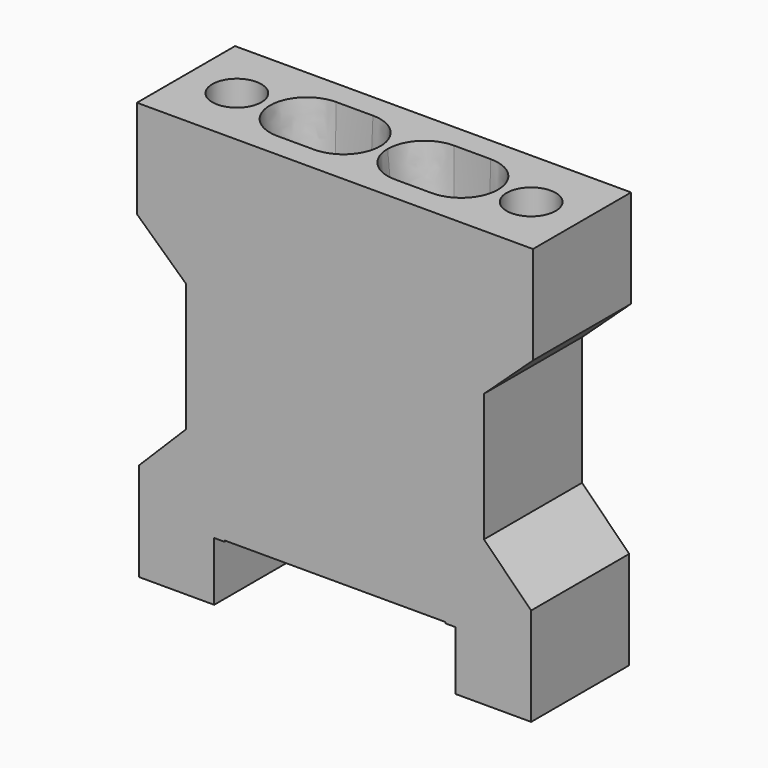
from build123d import *

# Parameters (mm, degrees)
SKETCH079_R     = 2.7
PAD033_DEPTH    = 10
SKETCH076_R     = 2.6
POCKET031_DEPTH = 8
SKETCH077_R     = 3
POCKET032_DEPTH = 1
SKETCH080_R     = 2
POCKET033_DEPTH = 8


with BuildPart() as loft005:
    # Sketch079 → Loft005 section 0
    with BuildSketch(Plane.XY.offset(16)):
        with Locations((-5, 0)):
            Circle(SKETCH079_R)
    # Sketch078 → Loft005 section 1
    with BuildSketch(Plane.XY.offset(38)):
        with BuildLine():
            ThreePointArc((-6.3, 3), (-9.3, 0), (-6.3, -3))
            Line((-6.3, -3), (-3.3, -3))
            ThreePointArc((-3.3, -3), (-0.3, 0), (-3.3, 3))
            Line((-3.3, 3), (-6.3, 3))
        make_face()
    loft()


with BuildPart() as part_mirroring005:
    # Part__Mirroring005: instance of Loft005
    add(loft005.part.mirror(Plane(origin=(0, 0, 0), x_dir=(0, -1, 0), z_dir=(1, 0, 0))))


with BuildPart() as fusion005:
    # Fusion005 base: copy of Loft005
    add(loft005.part)

    # Fusion005: union Part__Mirroring005
    add(part_mirroring005.part)


with BuildPart() as fusion005_1:
    # Fusion005 placement: moved
    add(fusion005.part.moved(Location((0, -5, 0))))


with BuildPart() as cut004:
    # Sketch075 → Pad033 (new body)
    with BuildSketch(Plane.XZ):
        Polygon((-16, 4), (-9.85, 4), (-9.85, 7.2), (-9.85, 8.8), (-9, 8.8), (-9, 8.9), (9, 8.9), (9, 8.8), (9.85, 8.8), (9.85, 7.2), (9.85, 4), (16, 4), (16, 12), (12.15, 15.85), (12.15, 26.306086), (16.15, 30), (16.15, 38), (-16.15, 38), (-16.15, 30), (-12.15, 26.306086), (-12.15, 15.85), (-16, 12), align=None)
    extrude(amount=PAD033_DEPTH)

    # Sketch076 (on Face7 of Pad033) → Pocket031 (cut)
    with BuildSketch(Plane(origin=(0, 0, 8.9), x_dir=(1, 0, 0), z_dir=(0, 0, -1))):
        with Locations((-5, 5)):
            Circle(SKETCH076_R)
        with Locations((5, 5)):
            Circle(SKETCH076_R)
    extrude(amount=-POCKET031_DEPTH, mode=Mode.SUBTRACT)

    # Sketch077 (on Face11 of Pocket031) → Pocket032 (cut)
    with BuildSketch(Plane(origin=(0, 0, 8.9), x_dir=(1, 0, 0), z_dir=(0, 0, -1))):
        with Locations((-5, 5)):
            Circle(SKETCH077_R)
        with Locations((5, 5)):
            Circle(SKETCH077_R)
    extrude(amount=-POCKET032_DEPTH, mode=Mode.SUBTRACT)

    # Sketch080 (on Face22 of Pocket032) → Pocket033 (cut)
    with BuildSketch(Plane(origin=(0, 0, 38), x_dir=(-1, 0, 0), z_dir=(0, 0, 1))):
        with Locations((-12, 5)):
            Circle(SKETCH080_R)
        with Locations((12, 5)):
            Circle(SKETCH080_R)
    extrude(amount=-POCKET033_DEPTH, mode=Mode.SUBTRACT)

    # Cut004: cut Fusion005
    add(fusion005_1.part, mode=Mode.SUBTRACT)


with BuildPart() as cut004_1:
    # Cut004 placement: moved
    add(cut004.part.moved(Location((0, -474.33, 0))))


solid = cut004_1.part
